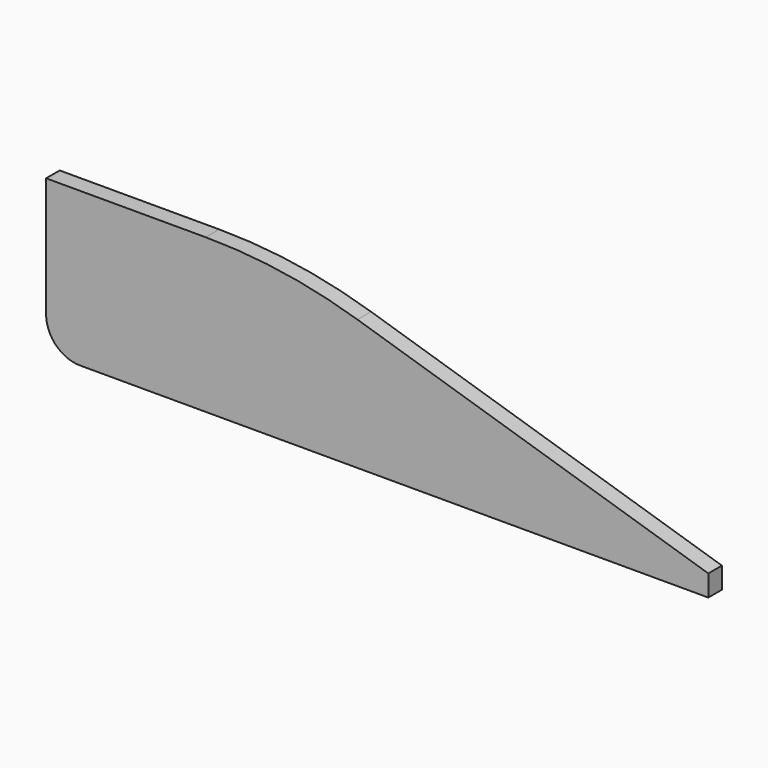
from build123d import *

# Parameters (mm, degrees)
F1_DEPTH = 4


with BuildPart() as f1:
    # F0 (on Front) → F1 (new body)
    with BuildSketch(Plane.XZ):
        with BuildLine():
            Line((-118.272304, 40.226296), (-155.81813, 40.226296))
            Line((-155.81813, 40.226296), (-155.81813, 12.049596))
            ThreePointArc((-155.81813, 12.049596), (-153.474984, 6.392741), (-147.81813, 4.049596))
            Line((-147.81813, 4.049596), (0, 4.049596))
            Line((0, 4.049596), (0, 9.049596))
            Line((0, 9.049596), (-82.555815, 34.787774))
            ThreePointArc((-82.555815, 34.787774), (-100.208216, 38.858874), (-118.272304, 40.226296))
        make_face()
    extrude(amount=F1_DEPTH)


solid = f1.part
